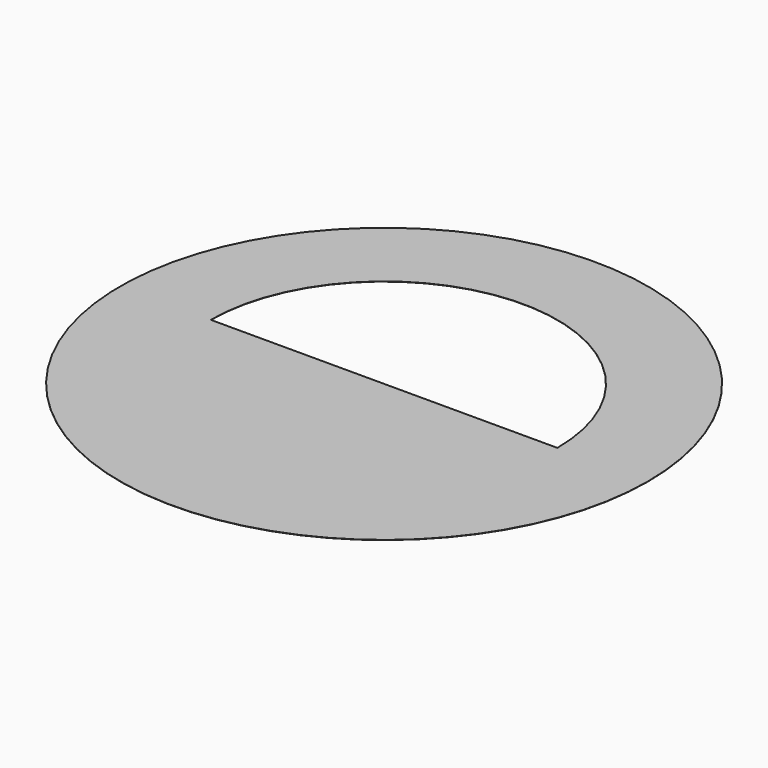
from build123d import *

# Parameters (mm, degrees)
F0_R     = 33.02
F1_DEPTH = 0.0254


with BuildPart() as f1:
    # F0 (on Top) → F1 (new body)
    with BuildSketch(Plane.XY):
        with Locations((-225.152053, -15.762364)):
            Circle(F0_R)
        with BuildLine():
            Line((-203.4714, -15.762364), (-246.832706, -15.762364))
            ThreePointArc((-246.832706, -15.762364), (-225.152053, 5.918288), (-203.4714, -15.762364))
        make_face(mode=Mode.SUBTRACT)
    extrude(amount=F1_DEPTH)


solid = f1.part
